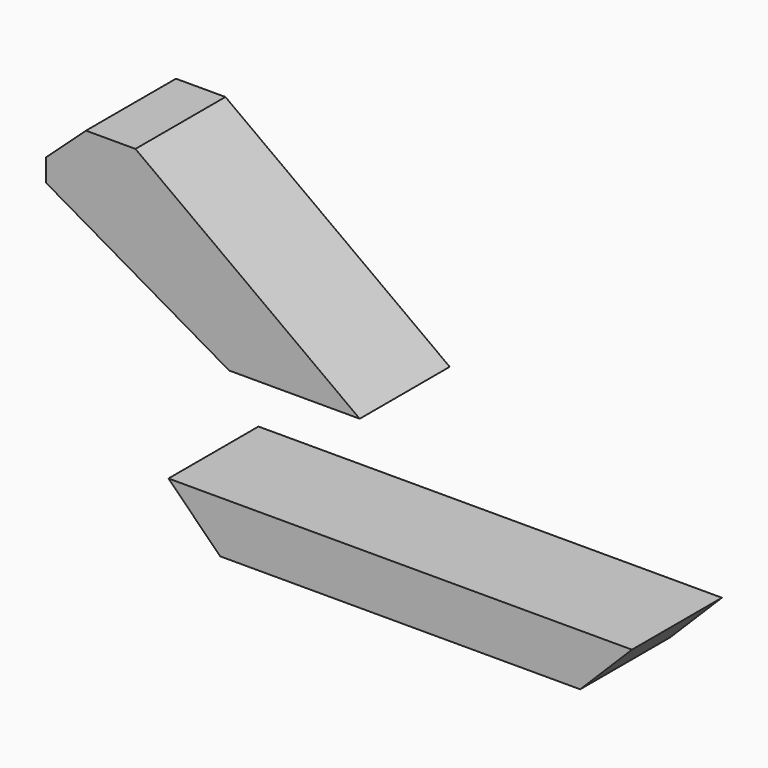
from build123d import *

# Parameters (mm, degrees)
F1_DEPTH = 250


with BuildPart() as f1:
    # F0 (on Front) → F1 (new body)
    with BuildSketch(Plane.XZ):
        Polygon((1030, 0), (0, 0), (115, -115), (915, -115), align=None)
        Polygon((-272.03194, 490), (135, 255), (425, 255), (-73.417299, 620.916287), (-183.417299, 620.916287), (-272.03194, 540), align=None)
    extrude(amount=F1_DEPTH)


solid = f1.part
